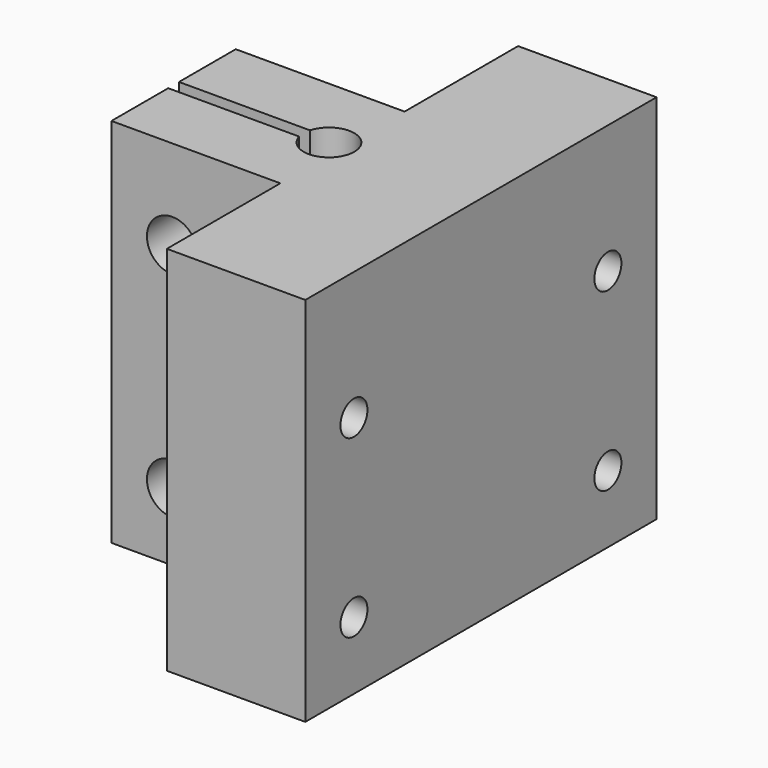
from build123d import *

# Parameters (mm, degrees)
F1_DEPTH = 55
F2_R     = 2.5
F3_DEPTH = 45.501
F4_R     = 3.75
F5_DEPTH = 44.001


with BuildPart() as f1:
    # F0 (on Top) → F1 (new body)
    with BuildSketch(Plane.XY):
        with BuildLine():
            Line((63.350305, -26.724461), (63.350305, 38.275539))
            Line((63.350305, 38.275539), (42.850305, 38.275539))
            Line((42.850305, 38.275539), (42.850305, 17.275539))
            Line((42.850305, 17.275539), (17.850305, 17.275539))
            Line((17.850305, 17.275539), (17.850305, 6.775539))
            Line((17.850305, 6.775539), (37.236097, 6.775539))
            ThreePointArc((37.236097, 6.775539), (44.600305, 5.775539), (37.236097, 4.775539))
            Line((37.236097, 4.775539), (17.850305, 4.775539))
            Line((17.850305, 4.775539), (17.850305, -5.724461))
            Line((17.850305, -5.724461), (42.850305, -5.724461))
            Line((42.850305, -5.724461), (42.850305, -26.724461))
            Line((42.850305, -26.724461), (63.350305, -26.724461))
        make_face()
    extrude(amount=F1_DEPTH)

    # F2 (on face) → F3 (cut, through all)
    with BuildSketch(Plane.YZ.offset(63.350305)):
        with Locations((29.275539, 10)):
            Circle(F2_R)
        with Locations((29.275539, 36)):
            Circle(F2_R)
        with Locations((-17.724461, 10)):
            Circle(F2_R)
        with Locations((-17.724461, 36)):
            Circle(F2_R)
    extrude(amount=-F3_DEPTH, mode=Mode.SUBTRACT)

    # F4 (on face) → F5 (cut, through all)
    with BuildSketch(Plane.XZ.offset(5.724461)):
        with Locations((26.850305, 41.680109)):
            Circle(F4_R)
        with Locations((26.850305, 10)):
            Circle(F4_R)
    extrude(amount=-F5_DEPTH, mode=Mode.SUBTRACT)


solid = f1.part
